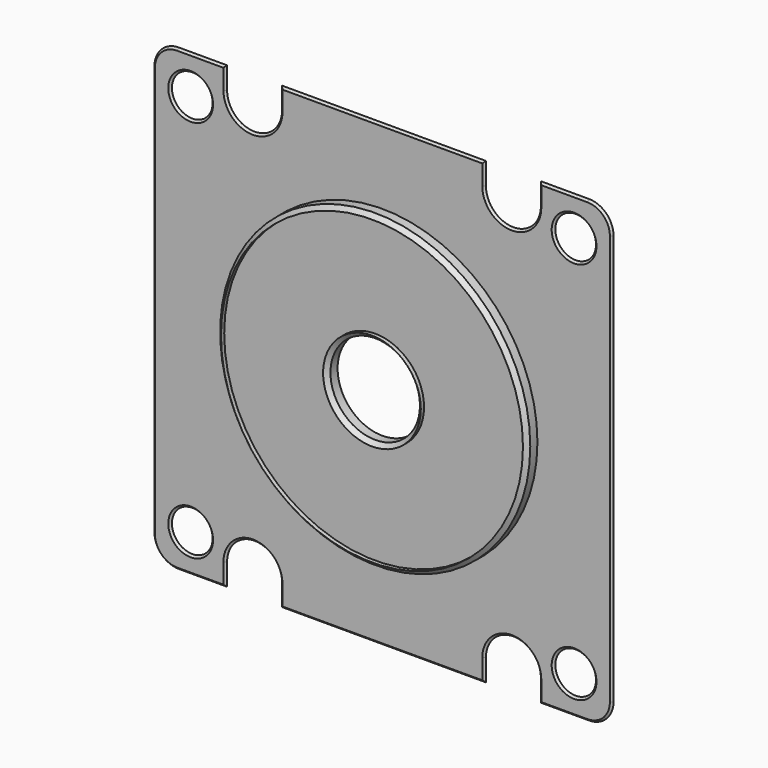
from build123d import *

# Parameters (mm, degrees)
SKETCH036_R     = 5.5
PAD020_DEPTH    = 6
SKETCH035_R     = 5.5
PAD019_DEPTH    = 5
SKETCH037_R     = 19.05
SKETCH037_R_2   = 5.5
PAD021_DEPTH    = 1.6
SKETCH038_R     = 2.5
POCKET015_DEPTH = 11.001
SKETCH039_R     = 1.5
POCKET016_DEPTH = 12.601
POCKET017_DEPTH = 3
SKETCH041_R     = 11
POCKET018_DEPTH = 11
CHAMFER004_SIZE = 0.25
CHAMFER005_SIZE = 0.5
SKETCH042_R     = 40.822693
POCKET022_DEPTH = 10.75
SKETCH043_R     = 18.55
SKETCH043_R_2   = 6
POCKET023_DEPTH = 0.5


with BuildPart() as part:
    # Sketch036 → Pad020 (new body)
    with BuildSketch(Plane(origin=(0, 5, 0), x_dir=(1, 0, 0), z_dir=(0, 1, 0))):
        with BuildLine():
            Line((-26.2, 19.45), (-23.7, 19.45))
            ThreePointArc((-23.7, 19.45), (-20.694796, 20.694796), (-19.45, 23.7))
            Line((-19.45, 23.7), (-19.45, 26.2))
            ThreePointArc((-17.45, 28.2), (-18.864214, 27.614214), (-19.45, 26.2))
            Line((-17.45, 28.2), (17.45, 28.2))
            ThreePointArc((19.45, 26.2), (18.864214, 27.614214), (17.45, 28.2))
            Line((19.45, 26.2), (19.45, 23.7))
            ThreePointArc((19.45, 23.7), (20.694796, 20.694796), (23.7, 19.45))
            Line((23.7, 19.45), (26.2, 19.45))
            ThreePointArc((28.2, 17.45), (27.614214, 18.864214), (26.2, 19.45))
            Line((28.2, 17.45), (28.2, -17.45))
            ThreePointArc((26.2, -19.45), (27.614214, -18.864214), (28.2, -17.45))
            Line((23.7, -19.45), (26.2, -19.45))
            ThreePointArc((23.7, -19.45), (20.694796, -20.694796), (19.45, -23.7))
            Line((19.45, -26.2), (19.45, -23.7))
            ThreePointArc((17.45, -28.2), (18.864214, -27.614214), (19.45, -26.2))
            Line((-17.45, -28.2), (17.45, -28.2))
            ThreePointArc((-19.45, -26.2), (-18.864214, -27.614214), (-17.45, -28.2))
            Line((-19.45, -26.2), (-19.45, -23.7))
            ThreePointArc((-19.45, -23.7), (-20.694796, -20.694796), (-23.7, -19.45))
            Line((-26.2, -19.45), (-23.7, -19.45))
            ThreePointArc((-28.2, -17.45), (-27.614214, -18.864214), (-26.2, -19.45))
            Line((-28.2, 17.45), (-28.2, -17.45))
            ThreePointArc((-26.2, 19.45), (-27.614214, 18.864214), (-28.2, 17.45))
        make_face()
        Circle(SKETCH036_R, mode=Mode.SUBTRACT)
    extrude(amount=PAD020_DEPTH)

    # Sketch035 (on Face26 of Pad020) → Pad019 (join)
    with BuildSketch(Plane.XZ.offset(-5)):
        with BuildLine():
            Line((-28.2, 25.2), (-28.2, -25.2))
            ThreePointArc((-28.2, -25.2), (-27.32132, -27.32132), (-25.2, -28.2))
            Line((-25.2, -28.2), (25.2, -28.2))
            ThreePointArc((25.2, -28.2), (27.32132, -27.32132), (28.2, -25.2))
            Line((28.2, 25.2), (28.2, -25.2))
            ThreePointArc((28.2, 25.2), (27.32132, 27.32132), (25.2, 28.2))
            Line((-25.2, 28.2), (25.2, 28.2))
            ThreePointArc((-25.2, 28.2), (-27.32132, 27.32132), (-28.2, 25.2))
        make_face()
        Circle(SKETCH035_R, mode=Mode.SUBTRACT)
    extrude(amount=PAD019_DEPTH)

    # Sketch037 (on Face33 of Pad019) → Pad021 (join)
    with BuildSketch(Plane.XZ):
        Circle(SKETCH037_R)
        Circle(SKETCH037_R_2, mode=Mode.SUBTRACT)
    extrude(amount=PAD021_DEPTH)

    # Sketch038 (on Face33 of Pad021) → Pocket015 (cut, through all)
    with BuildSketch(Plane.XZ):
        with Locations((-23.55, 23.55)):
            Circle(SKETCH038_R)
        with Locations((23.55, 23.55)):
            Circle(SKETCH038_R)
        with Locations((23.55, -23.55)):
            Circle(SKETCH038_R)
        with Locations((-23.55, -23.55)):
            Circle(SKETCH038_R)
    extrude(amount=-POCKET015_DEPTH, mode=Mode.SUBTRACT)

    # Sketch039 (on Face5 of Pocket015) → Pocket016 (cut, through all)
    with BuildSketch(Plane(origin=(0, 11, 0), x_dir=(1, 0, 0), z_dir=(0, 1, 0))):
        with Locations((-15.9, 25.5)):
            Circle(SKETCH039_R)
        with Locations((15.9, 25.5)):
            Circle(SKETCH039_R)
        with Locations((-15.9, -25.5)):
            Circle(SKETCH039_R)
        with Locations((15.9, -25.5)):
            Circle(SKETCH039_R)
    extrude(amount=-POCKET016_DEPTH, mode=Mode.SUBTRACT)

    # Sketch040 (on Face38 of Pocket016) → Pocket017 (cut)
    with BuildSketch(Plane.XZ):
        with BuildLine():
            Line((-19.275, -25.5), (-19.275, -30.5))
            Line((-19.275, -30.5), (-12.525, -30.5))
            Line((-12.525, -30.5), (-12.525, -25.5))
            ThreePointArc((-12.525, -25.5), (-15.9, -22.125), (-19.275, -25.5))
        make_face()
        with BuildLine():
            Line((12.525, -25.5), (12.525, -30.5))
            Line((12.525, -30.5), (19.275, -30.5))
            Line((19.275, -30.5), (19.275, -25.5))
            ThreePointArc((19.275, -25.5), (15.9, -22.125), (12.525, -25.5))
        make_face()
        with BuildLine():
            Line((-19.275, 25.5), (-19.275, 30.5))
            Line((-19.275, 30.5), (-12.525, 30.5))
            Line((-12.525, 30.5), (-12.525, 25.5))
            ThreePointArc((-19.275, 25.5), (-15.9, 22.125), (-12.525, 25.5))
        make_face()
        with BuildLine():
            Line((12.525, 25.5), (12.525, 30.5))
            Line((12.525, 30.5), (19.275, 30.5))
            Line((19.275, 30.5), (19.275, 25.5))
            ThreePointArc((12.525, 25.5), (15.9, 22.125), (19.275, 25.5))
        make_face()
    extrude(amount=-POCKET017_DEPTH, mode=Mode.SUBTRACT)

    # Sketch041 (on Face5 of Pocket017) → Pocket018 (cut)
    with BuildSketch(Plane(origin=(0, 11, 0), x_dir=(1, 0, 0), z_dir=(0, 1, 0))):
        Circle(SKETCH041_R)
    extrude(amount=-POCKET018_DEPTH, mode=Mode.SUBTRACT)

    # Chamfer004
    chamfer004_edges = [part.edges().sort_by_distance(p)[0] for p in [
        (-28.2, 0, 0),
        (-27.32132, 0, 27.32132),
        (-26.05, 0, 23.55),
        (-22.2375, 0, 28.2),
        (-15.9, 0, 22.125),
        (0, 0, 28.2),
        (15.9, 0, 22.125),
        (21.05, 0, 23.55),
        (28.2, 0, 0),
        (-27.32132, 0, -27.32132),
        (-22.2375, 0, -28.2),
        (-26.05, 0, -23.55),
        (-15.9, 0, -22.125),
        (0, 0, -28.2),
        (27.32132, 0, -27.32132),
        (22.2375, 0, -28.2),
        (21.05, 0, -23.55),
        (15.9, 0, -22.125),
    ]]
    chamfer(chamfer004_edges, length=CHAMFER004_SIZE)

    # Chamfer005
    chamfer005_edges = [part.edges().sort_by_distance(p)[0] for p in [
        (-19.05, -1.6, 0),
        (-5.5, -1.6, 0),
    ]]
    chamfer(chamfer005_edges, length=CHAMFER005_SIZE)

    # Sketch042 (on Face7 of Pocket018) → Pocket022 (cut)
    with BuildSketch(Plane(origin=(0, 11, 0), x_dir=(1, 0, 0), z_dir=(0, 1, 0))):
        Circle(SKETCH042_R)
    extrude(amount=-POCKET022_DEPTH, mode=Mode.SUBTRACT)

    # Sketch043 (on Face4 of Pocket022) → Pocket023 (cut)
    with BuildSketch(Plane.XZ.offset(1.6)):
        Circle(SKETCH043_R)
        Circle(SKETCH043_R_2, mode=Mode.SUBTRACT)
    extrude(amount=-POCKET023_DEPTH, mode=Mode.SUBTRACT)


solid = part.part
